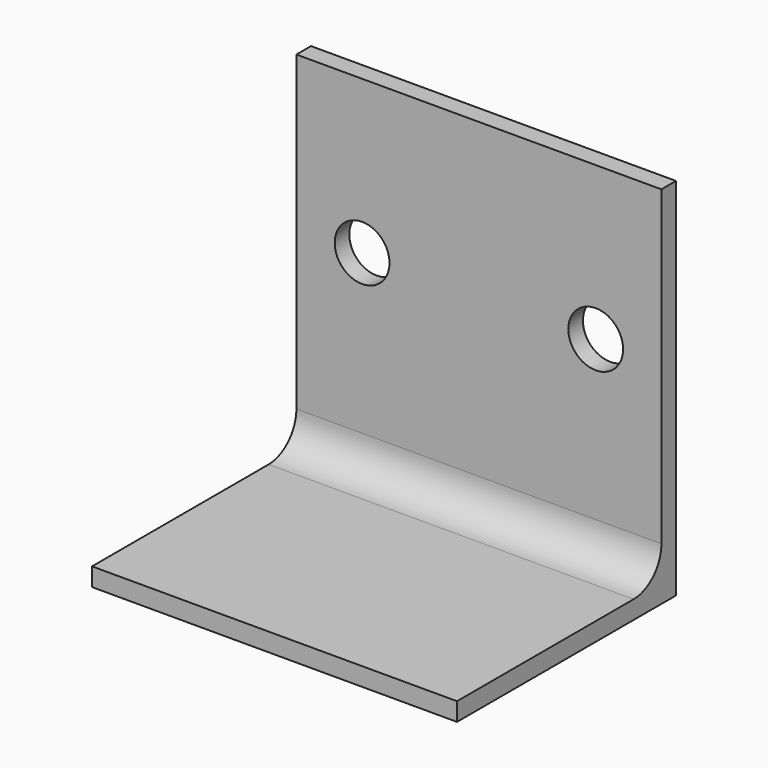
from build123d import *

# Parameters (mm, degrees)
F0_W     = 100
F0_H     = 5
F1_DEPTH = 75
F0_H_2   = 95
F2_DEPTH = 5
F3_R     = 9.5
F4_R     = 7.5
F5_DEPTH = 5.001


with BuildPart() as f1:
    # F0 (on Front) → F1 (new body)
    with BuildSketch(Plane.XZ):
        with Locations((-11.639485, -19.803855)):
            Rectangle(F0_W, F0_H)
    extrude(amount=F1_DEPTH)

    # F0 (on Front) → F2 (join)
    with BuildSketch(Plane.XZ):
        with Locations((-11.639485, 30.196145)):
            Rectangle(F0_W, F0_H_2)
        with Locations((-11.639485, -19.803855)):
            Rectangle(F0_W, F0_H)
    extrude(amount=F2_DEPTH)

    # F3
    f3_edges = [f1.edges().sort_by_distance(p)[0] for p in [
        (-11.639485, -5, -17.303855),
    ]]
    fillet(f3_edges, radius=F3_R)

    # F4 (on face) → F5 (cut, through all)
    with BuildSketch(Plane.XZ.offset(5)):
        with Locations((20.360515, 35.696145)):
            Circle(F4_R)
        with Locations((-43.639485, 35.696145)):
            Circle(F4_R)
    extrude(amount=-F5_DEPTH, mode=Mode.SUBTRACT)


solid = f1.part
